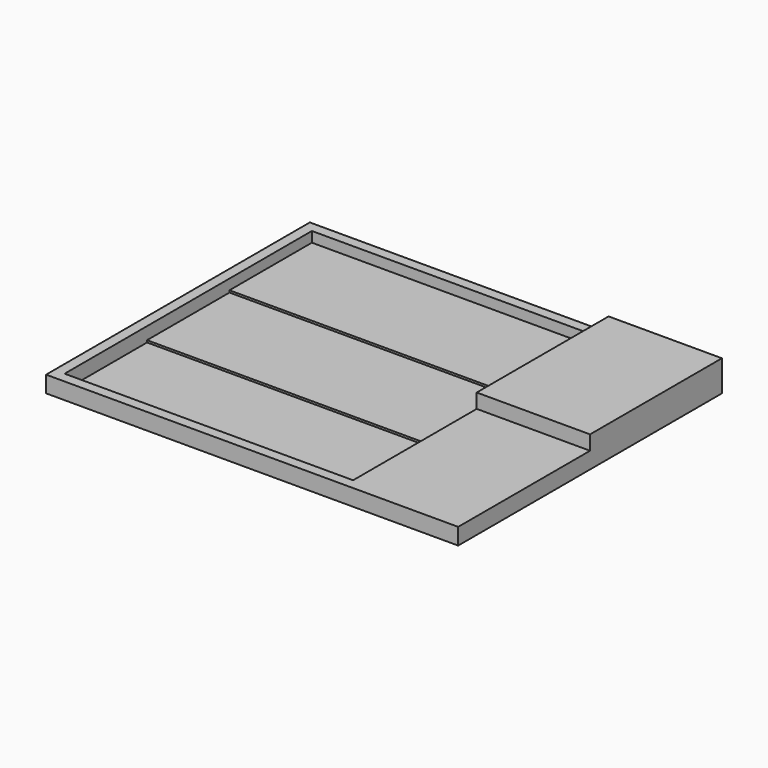
from build123d import *

# Parameters (mm, degrees)
F0_W      = 30
F0_H      = 32
F1_DEPTH  = 0.2
F2_W      = 30
F2_H      = 32
F2_W_2    = 28
F2_H_2    = 30
F3_DEPTH  = 1.4
F4_W      = 28
F4_H      = 20
F5_DEPTH  = 0.2
F6_W      = 28
F6_H      = 10
F7_DEPTH  = 0.2
F3_FACE_W = 32
F3_FACE_H = 1.6
F8_DEPTH  = 10
F9_W      = 11
F9_H      = 16
F10_DEPTH = 1.4


with BuildPart() as f1:
    # F0 (on Top) → F1 (new body)
    with BuildSketch(Plane.XY):
        with Locations((15, -16)):
            Rectangle(F0_W, F0_H)
    extrude(amount=F1_DEPTH)

    # F2 (on face) → F3 (join)
    with BuildSketch(Plane.XY.offset(0.2)):
        with Locations((15, -16)):
            Rectangle(F2_W, F2_H)
        with Locations((15, -16)):
            Rectangle(F2_W_2, F2_H_2, mode=Mode.SUBTRACT)
    extrude(amount=F3_DEPTH)

    # F4 (on face) → F5 (join)
    with BuildSketch(Plane.XY.offset(0.2)):
        with Locations((15, -11)):
            Rectangle(F4_W, F4_H)
    extrude(amount=F5_DEPTH)

    # F6 (on face) → F7 (join)
    with BuildSketch(Plane.XY.offset(0.4)):
        with Locations((15, -6)):
            Rectangle(F6_W, F6_H)
    extrude(amount=F7_DEPTH)

    # F3_face (on face) → F8 (join)
    with BuildSketch(Plane(origin=(30, -16, 0.8), x_dir=(0, 1, 0), z_dir=(1, 0, 0))):
        Rectangle(F3_FACE_W, F3_FACE_H)
    extrude(amount=F8_DEPTH)

    # F9 (on face) → F10 (join)
    with BuildSketch(Plane.XY.offset(1.6)):
        with Locations((34.5, -8)):
            Rectangle(F9_W, F9_H)
    extrude(amount=F10_DEPTH)


solid = f1.part
